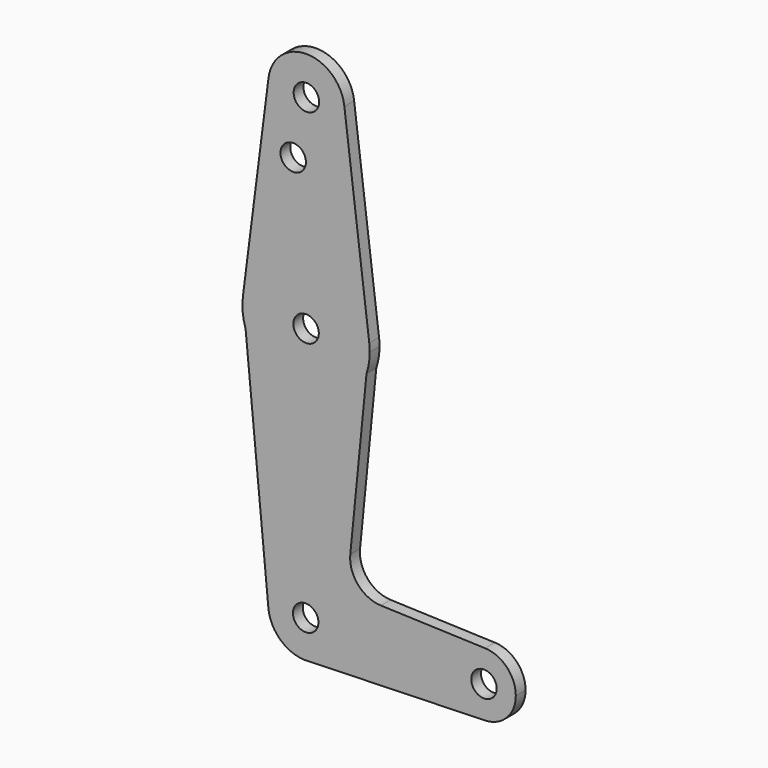
from build123d import *

# Parameters (mm, degrees)
F0_R     = 3.175
F1_DEPTH = 3.048


with BuildPart() as f1:
    # F0 (on Front) → F1 (new body)
    with BuildSketch(Plane.XZ):
        with BuildLine():
            ThreePointArc((0.9317650018, -83.8459721666), (6.9288640955, -80.8176490707), (9.3440798747, -74.5484648293))
            ThreePointArc((9.3440798747, -74.5484648293), (-0.4451715738, -65.2149954328), (-9.3016620588, -75.4377969659))
            ThreePointArc((-9.3016620588, -75.4377969659), (-6.4238009338, -81.334230097), (-0.3786177199, -83.884870847))
            Line((-0.3786177199, -83.884870847), (0.9317650018, -83.8459721666))
        make_face()
        with Locations((0, -74.5484648293)):
            Circle(F0_R, mode=Mode.SUBTRACT)
        with BuildLine():
            ThreePointArc((-9.3016620588, -75.4377969659), (-0.4451715738, -65.2149954328), (9.3440798747, -74.5484648293))
            ThreePointArc((9.3440798747, -74.5484648293), (6.9288640955, -80.8176490707), (0.9317650018, -83.8459721666))
            Line((0.9317650018, -83.8459721666), (44.45, -82.554134379))
            ThreePointArc((44.45, -82.554134379), (36.5137551878, -74.4754800988), (44.7322639179, -66.6841547333))
            Line((44.7322639179, -66.6841547333), (18.7473772034, -65.7595263374))
            ThreePointArc((18.7473772034, -65.7595263374), (13.0448117515, -63.0471447529), (11.1183414278, -57.0334122443))
            Line((11.1183414278, -57.0334122443), (15.1635767889, -16.051013392))
            ThreePointArc((15.1635767889, -16.051013392), (0.0730961046, -26.9234462481), (-14.9840440257, -16.004887067))
            Line((-14.9840440257, -16.004887067), (-9.3016620588, -75.4377969659))
        make_face()
        with BuildLine():
            ThreePointArc((-0.3786177199, -83.884870847), (0.2772566603, -83.8884304315), (0.9317650018, -83.8459721666))
            Line((0.9317650018, -83.8459721666), (-0.3786177199, -83.884870847))
        make_face()
        with BuildLine():
            Line((-15.6499966361, -9.0395859455), (-14.9840440257, -16.004887067))
            ThreePointArc((-14.9840440257, -16.004887067), (0.0730961046, -26.9234462481), (15.1635767889, -16.051013392))
            Line((15.1635767889, -16.051013392), (15.8508702184, -9.0880233702))
            ThreePointArc((15.8508702184, -9.0880233702), (0.1217952948, 4.8265164035), (-15.6499966361, -9.0395859455))
        make_face()
        with Locations((0.0973850711, -11.0484648293)):
            Circle(F0_R, mode=Mode.SUBTRACT)
        with BuildLine():
            ThreePointArc((-15.6499966361, -9.0395859455), (-15.7055497457, -12.5593838131), (-14.9840440257, -16.004887067))
            Line((-14.9840440257, -16.004887067), (-15.6499966361, -9.0395859455))
        make_face()
        with BuildLine():
            ThreePointArc((44.7322639179, -66.6841547333), (36.5137551878, -74.4754800988), (44.45, -82.554134379))
            ThreePointArc((44.45, -82.554134379), (50.0626600757, -80.2292944547), (52.3875, -74.616634379))
            ThreePointArc((52.3875, -74.616634379), (50.1615836726, -69.1046730039), (44.7322639179, -66.6841547333))
        make_face()
        with Locations((44.45, -74.616634379)):
            Circle(F0_R, mode=Mode.SUBTRACT)
        with BuildLine():
            Line((-9.2905856273, 40.8111409425), (-15.6499966361, -9.0395859455))
            ThreePointArc((-15.6499966361, -9.0395859455), (0.1217952948, 4.8265164035), (15.8508702184, -9.0880233702))
            Line((15.8508702184, -9.0880233702), (9.6411718832, 40.8111409425))
            ThreePointArc((9.6411718832, 40.8111409425), (9.6855013313, 40.2821620908), (9.7002931279, 39.7515351707))
            ThreePointArc((9.7002931279, 39.7515351707), (-0.3553337921, 30.2413269673), (-9.2905856273, 40.8111409425))
        make_face()
        with Locations((-3.1145731919, 25.4767351707)):
            Circle(F0_R, mode=Mode.SUBTRACT)
        with BuildLine():
            Line((15.8508702184, -9.0880233702), (15.1635767889, -16.051013392))
            ThreePointArc((15.1635767889, -16.051013392), (15.7688785947, -13.5822200937), (15.9723850711, -11.0484648293))
            ThreePointArc((15.9723850711, -11.0484648293), (15.9419772355, -10.0663629285), (15.8508702184, -9.0880233702))
        make_face()
        with BuildLine():
            ThreePointArc((9.6411718832, 40.8111409425), (0.1752931279, 49.2765351707), (-9.2905856273, 40.8111409425))
            ThreePointArc((-9.2905856273, 40.8111409425), (-0.3553337921, 30.2413269673), (9.7002931279, 39.7515351707))
            ThreePointArc((9.7002931279, 39.7515351707), (9.6855013313, 40.2821620908), (9.6411718832, 40.8111409425))
        make_face()
        with Locations((0.1752931279, 39.7515351707)):
            Circle(F0_R, mode=Mode.SUBTRACT)
    extrude(amount=-F1_DEPTH)


solid = f1.part
